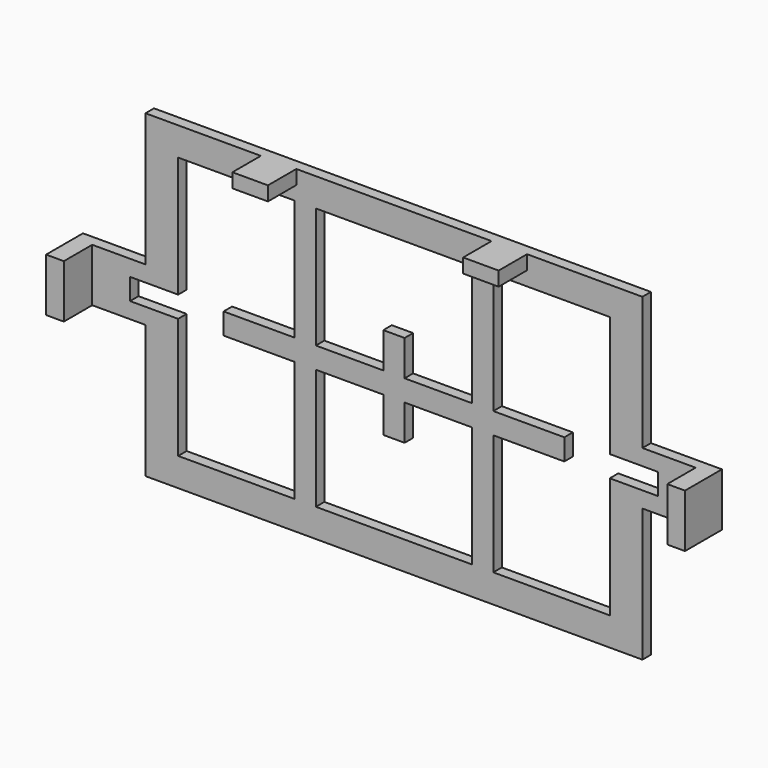
from build123d import *

# Parameters (mm, degrees)
F1_DEPTH = 3
F3_DEPTH = 25
F4_W     = 5
F4_H     = 15
F4_W_2   = 10
F4_H_2   = 4
F5_DEPTH = 10


with BuildPart() as f1:
    # F0 (on Front) → F1 (new body)
    with BuildSketch(Plane.XZ):
        Polygon((70, 45), (-70, 45), (-70, 7.5), (-90, 7.5), (-90, -7.5), (-70, -7.5), (-70, -45), (70, -45), (70, -7.5), (90, -7.5), (90, 7.5), (70, 7.5), align=None)
    extrude(amount=F1_DEPTH)

    # F2 (on face) → F3 (cut)
    with BuildSketch(Plane.XZ.offset(3)):
        Polygon((-28, 37), (-60.8, 37), (-60.8, 3), (-74.339576, 3), (-74.339576, -3), (-60.8, -3), (-60.8, -37), (-28, -37), (-28, -3), (-48, -3), (-48, 3), (-28, 3), align=None)
        Polygon((0, 37), (-22, 37), (-22, 3), (-3, 3), (-3, 13), (0, 13), (3, 13), (3, 3), (22, 3), (22, 37), align=None)
        Polygon((-3, -13), (-3, -3), (-22, -3), (-22, -37), (0, -37), (22, -37), (22, -3), (3, -3), (3, -13), (0, -13), align=None)
        Polygon((60.8, 3), (60.8, 37), (28, 37), (28, 3), (48, 3), (48, -3), (28, -3), (28, -37), (60.8, -37), (60.8, -3), (74.339576, -3), (74.339576, 3), align=None)
    extrude(amount=-F3_DEPTH, mode=Mode.SUBTRACT)

    # F4 (on face) → F5 (join)
    with BuildSketch(Plane.XZ.offset(3)):
        with Locations((-87.5, 0)):
            Rectangle(F4_W, F4_H)
        with Locations((87.5, 0)):
            Rectangle(F4_W, F4_H)
        with Locations((-32.5, 43)):
            Rectangle(F4_W_2, F4_H_2)
        with Locations((32.5, 43)):
            Rectangle(F4_W_2, F4_H_2)
    extrude(amount=F5_DEPTH)


solid = f1.part
